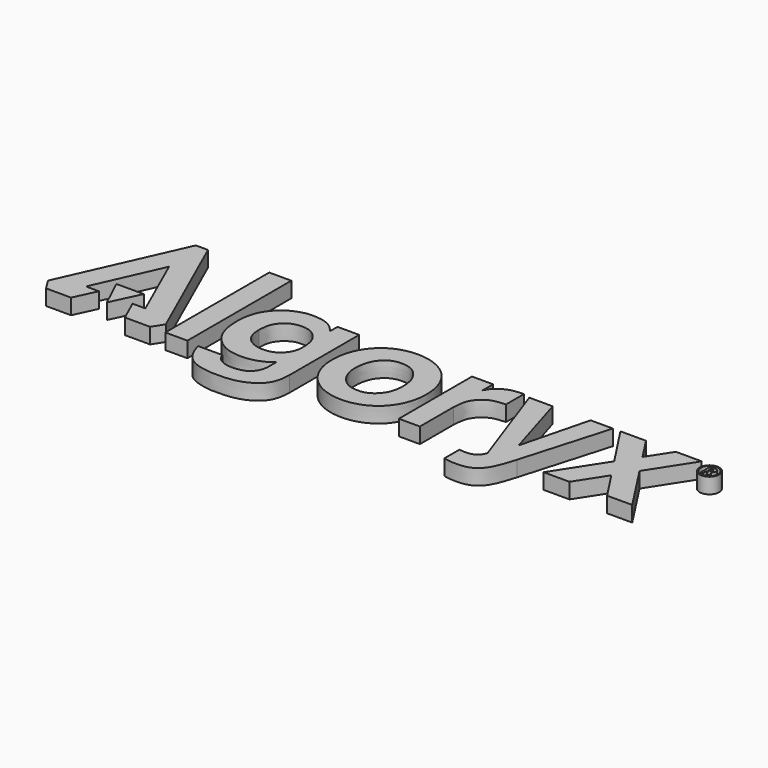
from build123d import *

# Parameters (mm, degrees)
F1_DEPTH = 1
F0_W     = 1.4222441241
F0_H     = 8.3537010942
F0_R     = 0.6279237331
F0_R_2   = 0.5579662235


with BuildPart() as f1:
    # F0 (on Top) → F1 (new body)
    with BuildSketch(Plane.XY):
        Polygon((-16.3488443941, 5.1873927005), (-19.7549946606, -2.4434113875), (-19.2986354232, -3.1626098789), (-17.6923759282, -3.1626098789), (-17.0299634337, -1.7472400796), (-17.8658995365, -1.7472400796), (-15.9504826335, 2.5438715831), (-14.0423420817, -1.7472400796), (-14.868805185, -1.7472400796), (-14.2271183431, -3.1626098789), (-12.6078501344, -3.1626098789), (-12.1584273875, -2.4611647241), (-15.5595326796, 5.1873927005), align=None)
    extrude(amount=F1_DEPTH)


with BuildPart() as f1b:
    # F0 (on Top) → F1, piece 2 (new body)
    with BuildSketch(Plane.XY):
        Polygon((-15.0812519714, -0.5779869971), (-16.8408062309, -0.5779869971), (-15.9615054727, -2.4477490224), align=None)
    extrude(amount=F1_DEPTH)


with BuildPart() as f1c:
    # F0 (on Top) → F1, piece 3 (new body)
    with BuildSketch(Plane.XY):
        with Locations((-10.9128146432, 1.0118944338)):
            Rectangle(F0_W, F0_H)
    extrude(amount=F1_DEPTH)


with BuildPart() as f1d:
    # F0 (on Top) → F1, piece 4 (new body)
    with BuildSketch(Plane.XY):
        with BuildLine():
            Line((-3.8558838423, -2.9073522892), (-3.8558838423, 2.7157925069))
            Line((-3.8558838423, 2.7157925069), (-5.250770133, 2.7191238478))
            Line((-5.250770133, 2.7191238478), (-5.250770133, 2.114744857))
            add(Edge.make_bspline(
                [(-5.250770133, -2.21574842), (-5.3920497055, -2.3193948492), (-5.6946541855, -2.5413934954), (-6.3790656755, -2.7866941034), (-7.1051137086, -2.8602071713), (-8.0102576587, -2.7169133708), (-8.6015221372, -2.3544268543), (-9.1727736402, -1.8164485211), (-9.5852897605, -0.8186467774), (-9.6033932944, 0.4374854815), (-9.4794880443, 0.9700036227), (-9.3367298672, 1.4304664875), (-8.9244721778, 2.0867692527), (-8.2561392645, 2.6313242637), (-7.4377129187, 2.8831253052), (-7.0734814674, 2.9149319819), (-6.3262880802, 2.8850689099), (-5.6641554038, 2.6030605841), (-5.3853377112, 2.2737042332), (-5.250770133, 2.114744857)],
                knots=[0, 0, 0, 0, 0.0509808047, 0.1091949785, 0.1688688096, 0.2342796744, 0.2914313499, 0.3512568062, 0.423367386, 0.5006161822, 0.5510785071, 0.5979317658, 0.6580649527, 0.7233611476, 0.7858093604, 0.8279922974, 0.8866651967, 0.9453004942, 1, 1, 1, 1], degree=3))
            add(Edge.make_bspline(
                [(-7.8452127054, -3.2898520585), (-7.8117121152, -3.3831675635), (-7.7435240544, -3.5730925913), (-7.4874653887, -3.8554136407), (-6.9104396614, -4.0701135923), (-6.198994273, -4.0312870769), (-5.5879318648, -3.8138385071), (-5.2278102971, -3.1809543087), (-5.2632398781, -2.6049119269), (-5.2475925603, -2.2731449662), (-5.250770133, -2.21574842)],
                knots=[0, 0, 0, 0, 0.0943787743, 0.1989056201, 0.3336805651, 0.4809450615, 0.6184027203, 0.7611149971, 0.8970689785, 1, 1, 1, 1], degree=3))
            Line((-7.8452127054, -3.2898520585), (-9.4050969929, -3.2898520585))
            add(Edge.make_bspline(
                [(-3.8558838423, -2.9073522892), (-3.8733207039, -3.3527132004), (-3.9847479517, -4.1270394232), (-4.878725911, -4.8580095844), (-5.9263591333, -5.1508891121), (-7.0285458213, -5.145199471), (-7.2181353727, -5.1233724342), (-8.7880057279, -4.9396309996), (-9.3461702362, -3.6012559191), (-9.3878459006, -3.3657068367), (-9.4050969929, -3.2898520585)],
                knots=[0, 0, 0, 0, 0.1447795052, 0.2801848671, 0.4224935274, 0.5555703208, 0.6172598715, 0.7748721933, 0.9288727709, 1, 1, 1, 1], degree=3))
        make_face()
        with BuildLine():
            add(Edge.make_bspline(
                [(-8.130852133, 0), (-8.1174517692, -0.2266994074), (-8.0922989215, -0.6522203652), (-7.7747844028, -1.0973844852), (-7.5714079052, -1.2904753987), (-7.0187293496, -1.5709833132), (-6.2923449024, -1.5490754637), (-5.7835136304, -1.3329298922), (-5.4385998399, -0.9580923995), (-5.2325266516, -0.5250447511), (-5.2272733379, -0.1782186411), (-5.2245738916, 0)],
                knots=[0, 0, 0, 0, 0.1248302671, 0.2343098089, 0.315203217, 0.4330322213, 0.5639285508, 0.6767522551, 0.7842696143, 0.8891456697, 1, 1, 1, 1], degree=3))
            add(Edge.make_bspline(
                [(-8.130852133, 0), (-8.1169884446, 0.2178751829), (-8.090597805, 0.632367112), (-7.8605360694, 1.1056345486), (-7.2902903611, 1.5944558185), (-6.6005338042, 1.6743826223), (-5.9458394278, 1.5451319124), (-5.4369448612, 1.0057929265), (-5.2829243885, 0.5782833878), (-5.2276432441, 0.2057098462), (-5.2245738916, 0)],
                knots=[0, 0, 0, 0, 0.1267402907, 0.2413208611, 0.3765308922, 0.5081145763, 0.6372987682, 0.7710294006, 0.8784094637, 1, 1, 1, 1], degree=3))
        make_face(mode=Mode.SUBTRACT)
    extrude(amount=F1_DEPTH)


with BuildPart() as f1e:
    # F0 (on Top) → F1, piece 5 (new body)
    with BuildSketch(Plane.XY):
        with BuildLine():
            add(Edge.make_bspline(
                [(-3.2284571789, -0.1961077651), (-3.2330784968, -0.4697769979), (-3.2013839352, -1.0458417207), (-2.7466966758, -2.1484963176), (-1.932272596, -2.8959996709), (-1.0483905846, -3.2809749107), (-0.074010286, -3.3931411197), (0.9683607812, -3.2216274357), (1.9812839464, -2.62643655), (2.662905825, -1.5724584623), (2.9036901636, -0.3160708099), (2.7171076738, 0.9904392799), (2.0547827019, 2.1022410894), (0.9030427317, 2.8092187506), (-0.4246596507, 2.974144101), (-1.6339206416, 2.6809134144), (-2.6548497466, 1.8786615956), (-3.1684669287, 0.7255080339), (-3.2236589148, 0.088040026), (-3.2284571789, -0.1961077651)],
                knots=[0, 0, 0, 0, 0.0504927178, 0.1100005383, 0.1676129359, 0.221158738, 0.2752299839, 0.331475023, 0.390372046, 0.4512307285, 0.5131529703, 0.5758826565, 0.6375828247, 0.7006046455, 0.7636828092, 0.8244420625, 0.8863699658, 0.9475739597, 1, 1, 1, 1], degree=3))
        make_face()
        with BuildLine():
            add(Edge.make_bspline(
                [(-1.7651357921, -0.2500803093), (-1.7626672265, -0.4227528248), (-1.7196902436, -0.8066936741), (-1.4487389326, -1.441417533), (-0.8564934896, -1.9674229799), (-0.2179672465, -2.0722982324), (0.3969886216, -2.0207090412), (0.9505707939, -1.6094257536), (1.2802270993, -1.0468676822), (1.3837137483, -0.3474192994), (1.3381658972, 0.1091701324), (1.2434352647, 0.6558673779), (0.8423905341, 1.2208932408), (0.5608336082, 1.4264035779), (0.2196076483, 1.6086303658), (-0.3570550031, 1.6536851158), (-0.8751832284, 1.5427851965), (-1.2859900169, 1.2273981133), (-1.6048865795, 0.7837137572), (-1.7394675052, 0.2348280637), (-1.7674655513, -0.0871170972), (-1.7651357921, -0.2500803093)],
                knots=[0, 0, 0, 0, 0.0518075624, 0.1098626073, 0.1711233063, 0.2267521635, 0.2809682141, 0.33779552, 0.3944840333, 0.4526599063, 0.5000413303, 0.5521680394, 0.6098955269, 0.6510391242, 0.6936686325, 0.7466979118, 0.7975743856, 0.8472216328, 0.8987682835, 0.9511055551, 1, 1, 1, 1], degree=3))
        make_face(mode=Mode.SUBTRACT)
    extrude(amount=F1_DEPTH)


with BuildPart() as f1f:
    # F0 (on Top) → F1, piece 6 (new body)
    with BuildSketch(Plane.XY):
        with BuildLine():
            Line((3.4016827121, 2.7188824024), (3.4016827121, -3.16482177))
            Line((3.4016827121, -3.16482177), (4.755126778, -3.16482177))
            Line((4.755126778, -3.16482177), (4.755126778, -0.4802318581))
            add(Edge.make_bspline(
                [(4.755126778, -0.4802318581), (4.7734483949, -0.2005050143), (4.8078021676, 0.3239941306), (5.1241682777, 0.8730966509), (5.6219692454, 1.2500119585), (6.0700671639, 1.3703092929), (6.4391946669, 1.3999928093), (6.633403711, 1.415610197)],
                knots=[0, 0, 0, 0, 0.2310006331, 0.4331355293, 0.6322488847, 0.8065151147, 1, 1, 1, 1], degree=3))
            Line((6.633403711, 1.415610197), (6.633403711, 2.8506107628))
            add(Edge.make_bspline(
                [(4.7564292327, 1.87528471), (4.8482313202, 2.038132891), (5.03929747, 2.3773686969), (5.6326295288, 2.7197582822), (6.1060922361, 2.8357739897), (6.4582264189, 2.8454822383), (6.633403711, 2.8506107628)],
                knots=[0, 0, 0, 0, 0.2524557041, 0.5242134823, 0.7585255327, 1, 1, 1, 1], degree=3))
            Line((4.7564292327, 1.87528471), (4.7564292327, 2.7188824024))
            Line((4.7564292327, 2.7188824024), (3.4016827121, 2.7188824024))
        make_face()
    extrude(amount=F1_DEPTH)


with BuildPart() as f1g:
    # F0 (on Top) → F1, piece 7 (new body)
    with BuildSketch(Plane.XY):
        with BuildLine():
            Line((8.5888998583, 2.7202325873), (7.0837903768, 2.7202325873))
            Line((7.0837903768, 2.7202325873), (9.2125628144, -3.2899719663))
            add(Edge.make_bspline(
                [(9.2125628144, -3.2899719663), (9.1787052334, -3.4279441923), (9.0564107605, -3.6601478459), (8.7385307716, -3.8821050174), (8.3303349143, -3.9352093426), (8.0326193943, -3.9127229171), (7.8785745427, -3.9008697495)],
                knots=[0, 0, 0, 0, 0.2474757346, 0.4853093506, 0.7343565434, 1, 1, 1, 1], degree=3))
            Line((7.8785745427, -3.9008697495), (7.8785745427, -5.1008067094))
            add(Edge.make_bspline(
                [(7.8785745427, -5.1008067094), (8.0552926395, -5.1497018894), (8.4073555488, -5.2008120982), (9.1296537108, -5.205693101), (9.7519877806, -5.01129371), (10.1973467616, -4.5645340348), (10.5297850486, -3.900793194), (10.7193582083, -3.2804695641), (10.8227310702, -2.9439320788)],
                knots=[0, 0, 0, 0, 0.14637953, 0.3148614575, 0.4742064011, 0.628421217, 0.7989654655, 1, 1, 1, 1], degree=3))
            Line((10.8227310702, -2.9439320788), (12.4670844525, 2.7202325873))
            Line((12.4670844525, 2.7202325873), (11.0321398824, 2.7202325873))
            Line((11.0321398824, 2.7202325873), (9.9153397605, -1.671714941))
            Line((9.9153397605, -1.671714941), (8.5888998583, 2.7202325873))
        make_face()
    extrude(amount=F1_DEPTH)


with BuildPart() as f1h:
    # F0 (on Top) → F1, piece 8 (new body)
    with BuildSketch(Plane.XY):
        Polygon((14.5939088581, 2.7210286353), (12.9459214934, 2.7210286353), (14.7437846061, -0.0236701289), (12.7147668973, -3.1663759146), (14.3803991377, -3.1663759146), (15.5826218096, -1.3042767667), (16.8023547049, -3.1663759146), (18.4175020033, -3.1663759146), (16.3929880867, -0.0491163132), (18.1814702228, 2.7210286353), (16.5158379823, 2.7210286353), (15.5577119585, 1.2370060044), align=None)
    extrude(amount=F1_DEPTH)


with BuildPart() as f1i:
    # F0 (on Top) → F1, piece 9 (new body)
    with BuildSketch(Plane.XY):
        with Locations((19.1399268806, 2.1418542601)):
            Circle(F0_R)
        with Locations((19.1399268806, 2.1418542601)):
            Circle(F0_R_2, mode=Mode.SUBTRACT)
    extrude(amount=F1_DEPTH)


with BuildPart() as f1j:
    # F0 (on Top) → F1, piece 10 (new body)
    with BuildSketch(Plane.XY):
        with BuildLine():
            Line((18.8851971179, 2.528425915), (18.8851971179, 1.7649914639))
            Line((18.8851971179, 1.7649914639), (19.0394744277, 1.7649914639))
            Line((19.0394744277, 1.7649914639), (19.0394744277, 2.0572288463))
            Line((19.0394744277, 2.0572288463), (19.1477070902, 2.0572288463))
            Line((19.1477070902, 2.0572288463), (19.2563701421, 1.7649914639))
            Line((19.2563701421, 1.7649914639), (19.4214078558, 1.7649914639))
            Line((19.4214078558, 1.7649914639), (19.3035937846, 2.081839511))
            add(Edge.make_bspline(
                [(19.3035937846, 2.081839511), (19.328685766, 2.1004080744), (19.3823016137, 2.1360033374), (19.4435686613, 2.2790132245), (19.3947284789, 2.4521662926), (19.3174499242, 2.5136443431), (19.2706417292, 2.528425915)],
                knots=[0, 0, 0, 0, 0.2067948108, 0.4654090403, 0.7458964616, 1, 1, 1, 1], degree=3))
            Line((19.2706417292, 2.528425915), (18.8851971179, 2.528425915))
        make_face()
        with BuildLine():
            add(Edge.make_bspline(
                [(19.0394744277, 2.3959446698), (19.0958790481, 2.3970727343), (19.1801648609, 2.4047670909), (19.2533160663, 2.3550875781), (19.2720919778, 2.2895888002), (19.2548474853, 2.2148438264), (19.1773387622, 2.1808686505), (19.0906815075, 2.1838072082), (19.0394744277, 2.1869585348)],
                knots=[0, 0, 0, 0, 0.2082389501, 0.3605272502, 0.4995256854, 0.6431459948, 0.7934412291, 1, 1, 1, 1], degree=3))
            Line((19.0394744277, 2.1869585348), (19.0394744277, 2.3959446698))
        make_face(mode=Mode.SUBTRACT)
    extrude(amount=F1_DEPTH)


solid = Compound([f1.part, f1b.part, f1c.part, f1d.part, f1e.part, f1f.part, f1g.part, f1h.part, f1i.part, f1j.part])
